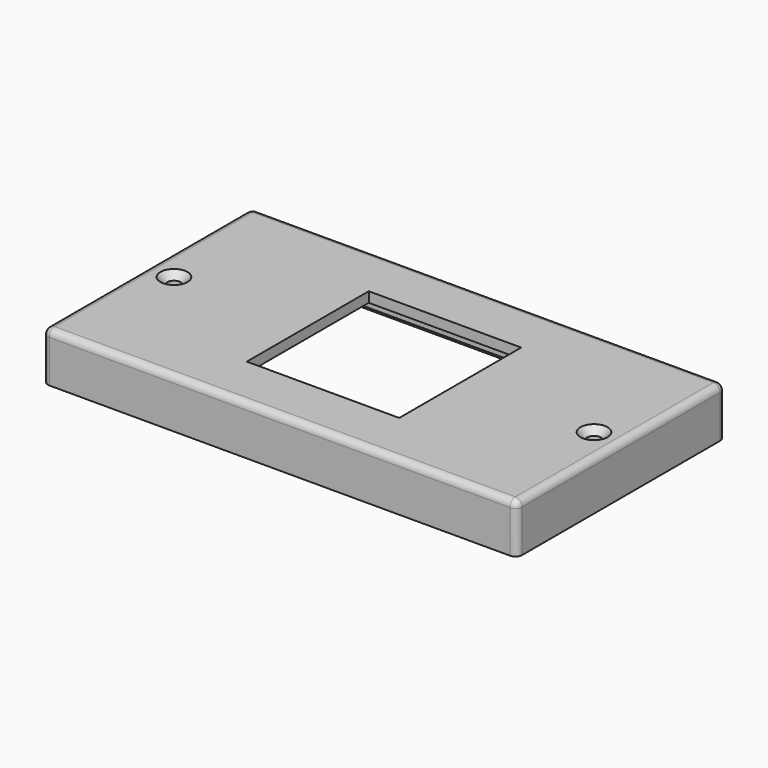
from build123d import *

# Parameters (mm, degrees)
F0_W     = 140
F0_H     = 77
F0_R     = 4
F0_W_2   = 45
F0_H_2   = 45
F0_R_2   = 2
F1_DEPTH = 3
F2_W     = 140
F2_H     = 77
F2_R     = 2
F3_DEPTH = 10
F4_W     = 140
F4_H     = 77
F4_W_2   = 136.839989
F4_H_2   = 74
F5_DEPTH = 1.5
F6_R     = 2
F7_SIZE  = 2


with BuildPart() as f1:
    # F0 (on Top) → F1 (new body)
    with BuildSketch(Plane.XY):
        Rectangle(F0_W, F0_H)
        with Locations((-62, 0)):
            Circle(F0_R, mode=Mode.SUBTRACT)
        Rectangle(F0_W_2, F0_H_2, mode=Mode.SUBTRACT)
        with Locations((62, 0)):
            Circle(F0_R, mode=Mode.SUBTRACT)
        with Locations((-62, 0)):
            Circle(F0_R)
        with Locations((-62, 0)):
            Circle(F0_R_2, mode=Mode.SUBTRACT)
        with Locations((62, 0)):
            Circle(F0_R)
        with Locations((62, 0)):
            Circle(F0_R_2, mode=Mode.SUBTRACT)
    extrude(amount=F1_DEPTH)

    # F2 (on face) → F3 (join)
    with BuildSketch(Plane(origin=(0, 0, 0), x_dir=(1, 0, 0), z_dir=(0, 0, -1))):
        Rectangle(F2_W, F2_H)
        Polygon((-67, 4), (-67, 35.5), (67, 35.5), (67, 4), (67, -4), (67, -35.5), (-67, -35.5), (-67, -4), align=None, mode=Mode.SUBTRACT)
        with BuildLine():
            ThreePointArc((-58, 0), (-59.171573, 2.828427), (-62, 4))
            ThreePointArc((-62, 4), (-66, 0), (-62, -4))
            ThreePointArc((-62, -4), (-59.171573, -2.828427), (-58, 0))
        make_face()
        with Locations((-62, 0)):
            Circle(F2_R, mode=Mode.SUBTRACT)
        with BuildLine():
            ThreePointArc((66, 0), (64.828427, 2.828427), (62, 4))
            ThreePointArc((62, 4), (58, 0), (62, -4))
            ThreePointArc((62, -4), (64.828427, -2.828427), (66, 0))
        make_face()
        with Locations((62, 0)):
            Circle(F2_R, mode=Mode.SUBTRACT)
        with BuildLine():
            Line((-62, 4), (-67, 4))
            Line((-67, 4), (-67, -4))
            Line((-67, -4), (-62, -4))
            ThreePointArc((-62, -4), (-66, 0), (-62, 4))
        make_face()
        with BuildLine():
            Line((67, -4), (67, 4))
            Line((67, 4), (62, 4))
            ThreePointArc((62, 4), (64.828427, 2.828427), (66, 0))
            ThreePointArc((66, 0), (64.828427, -2.828427), (62, -4))
            Line((62, -4), (67, -4))
        make_face()
    extrude(amount=F3_DEPTH)

    # F4 (on face) → F5 (join)
    with BuildSketch(Plane(origin=(0, 0, -10), x_dir=(1, 0, 0), z_dir=(0, 0, -1))):
        Rectangle(F4_W, F4_H)
        with Locations((-0.080005, 0)):
            Rectangle(F4_W_2, F4_H_2, mode=Mode.SUBTRACT)
    extrude(amount=F5_DEPTH)

    # F6
    f6_edges = [f1.edges().sort_by_distance(p)[0] for p in [
        (0, -38.5, 3),
        (70, 0, 3),
        (0, 38.5, 3),
        (-70, 0, 3),
        (-70, 38.5, -4.25),
        (-70, -38.5, -4.25),
        (70, -38.5, -4.25),
        (70, 38.5, -4.25),
    ]]
    fillet(f6_edges, radius=F6_R)

    # F7
    f7_edges = [f1.edges().sort_by_distance(p)[0] for p in [
        (-64, 0, 3),
        (60, 0, 3),
    ]]
    chamfer(f7_edges, length=F7_SIZE)


solid = f1.part
